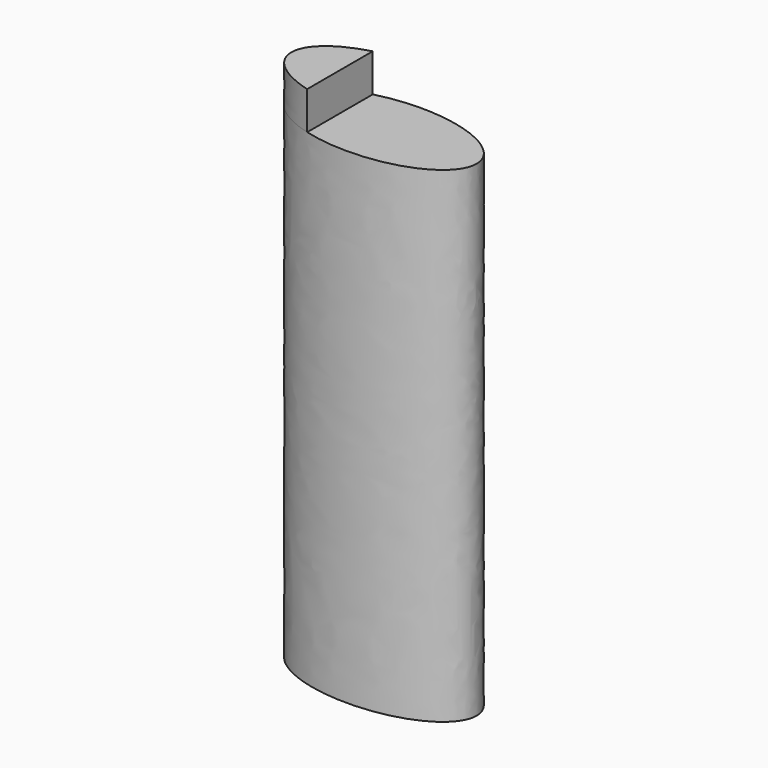
from build123d import *

# Parameters (mm, degrees)
F1_DEPTH = 64
F3_DEPTH = 5


with BuildPart() as f1:
    # F0 (on Top) → F1 (new body)
    with BuildSketch(Plane.XY):
        with BuildLine():
            add(Edge.make_bspline(
                [(0, 6.13), (-21.1310198523, 6.13), (-10.5655099262, -3.065), (0, -12.26), (10.5655099262, -3.065), (21.1310198523, 6.13), (0, 6.13)],
                knots=[4.7123889804, 4.7123889804, 4.7123889804, 6.8067840828, 6.8067840828, 8.9011791852, 8.9011791852, 10.9955742876, 10.9955742876, 10.9955742876], degree=2, weights=[1, 0.5, 1, 0.5, 1, 0.5, 1]))
        make_face()
    extrude(amount=F1_DEPTH)

    # F2 (on face) → F3 (join)
    with BuildSketch(Plane.XY.offset(64)):
        with BuildLine():
            add(Edge.make_bspline(
                [(-5.8, 5.3929560795), (-25.6620689655, 0), (-5.8, -5.3929560795)],
                knots=[5.207818801, 5.207818801, 5.207818801, 7.3585518134, 7.3585518134, 7.3585518134], degree=2, weights=[1, 0.4754098361, 1]))
            Line((-5.8, -5.3929560795), (-5.8, 5.3929560795))
        make_face()
    extrude(amount=F3_DEPTH)


solid = f1.part
